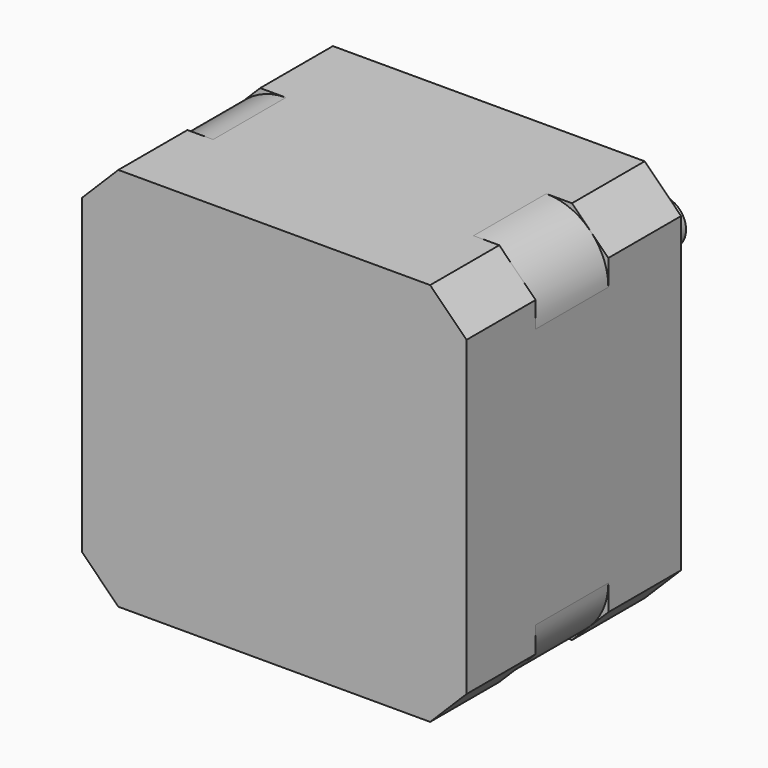
from build123d import *

# Parameters (mm, degrees)
F0_W      = 42.3
F0_H      = 42.3
F1_DEPTH  = 29.5
F2_R      = 11
F3_DEPTH  = 2
F4_R      = 2.5
F5_DEPTH  = 22
F7_DEPTH  = 20
F8_SIZE   = 4
F11_DEPTH = 5
F12_R     = 1.5
F13_DEPTH = 10


with BuildPart() as f1:
    # F0 (on Front) → F1 (new body)
    with BuildSketch(Plane.XZ):
        Rectangle(F0_W, F0_H)
    extrude(amount=F1_DEPTH)

    # F2 (on face) → F3 (join)
    with BuildSketch(Plane(origin=(0, 0, 0), x_dir=(-1, 0, 0), z_dir=(0, 1, 0))):
        Circle(F2_R)
    extrude(amount=F3_DEPTH)

    # F4 (on face) → F5 (join)
    with BuildSketch(Plane(origin=(0, 2, 0), x_dir=(-1, 0, 0), z_dir=(0, 1, 0))):
        Circle(F4_R)
    extrude(amount=F5_DEPTH)

    # F6 (on face) → F7 (cut)
    with BuildSketch(Plane(origin=(0, 24, 0), x_dir=(-1, 0, 0), z_dir=(0, 1, 0))):
        with BuildLine():
            ThreePointArc((2.5, 0), (2.1182908015, 1.3277213865), (1.0897247359, 2.25))
            Line((1.0897247359, 2.25), (1.0897247359, -2.25))
            ThreePointArc((1.0897247359, -2.25), (2.1182908015, -1.3277213865), (2.5, 0))
        make_face()
    extrude(amount=-F7_DEPTH, mode=Mode.SUBTRACT)

    # F8
    f8_edges = [f1.edges().sort_by_distance(p)[0] for p in [
        (-21.15, -14.75, 21.15),
        (-21.15, -14.75, -21.15),
        (21.15, -14.75, -21.15),
        (21.15, -14.75, 21.15),
    ]]
    chamfer(f8_edges, length=F8_SIZE)

    # F10 (on offset) → F11 (cut, symmetric)
    with BuildSketch(Plane.XZ.offset(15)):
        with BuildLine():
            ThreePointArc((14.3215728753, 21.15), (19.15, 19.15), (21.15, 14.3215728753))
            Line((21.15, 14.3215728753), (21.15, 21.15))
            Line((21.15, 21.15), (14.3215728753, 21.15))
        make_face()
        with BuildLine():
            Line((-21.15, 21.15), (-21.15, 14.3215728753))
            ThreePointArc((-21.15, 14.3215728753), (-19.15, 19.15), (-14.3215728753, 21.15))
            Line((-14.3215728753, 21.15), (-21.15, 21.15))
        make_face()
        with BuildLine():
            Line((21.15, -21.15), (21.15, -14.3215728753))
            ThreePointArc((21.15, -14.3215728753), (19.15, -19.15), (14.3215728753, -21.15))
            Line((14.3215728753, -21.15), (21.15, -21.15))
        make_face()
        with BuildLine():
            ThreePointArc((-14.3215728753, -21.15), (-19.15, -19.15), (-21.15, -14.3215728753))
            Line((-21.15, -14.3215728753), (-21.15, -21.15))
            Line((-21.15, -21.15), (-14.3215728753, -21.15))
        make_face()
    extrude(amount=F11_DEPTH, both=True, mode=Mode.SUBTRACT)

    # F12 (on face) → F13 (cut)
    with BuildSketch(Plane(origin=(0, 0, 0), x_dir=(-1, 0, 0), z_dir=(0, 1, 0))):
        with Locations((-15.5, 15.5)):
            Circle(F12_R)
        with Locations((15.5, 15.5)):
            Circle(F12_R)
        with Locations((-15.5, -15.5)):
            Circle(F12_R)
        with Locations((15.5, -15.5)):
            Circle(F12_R)
    extrude(amount=-F13_DEPTH, mode=Mode.SUBTRACT)


solid = f1.part
